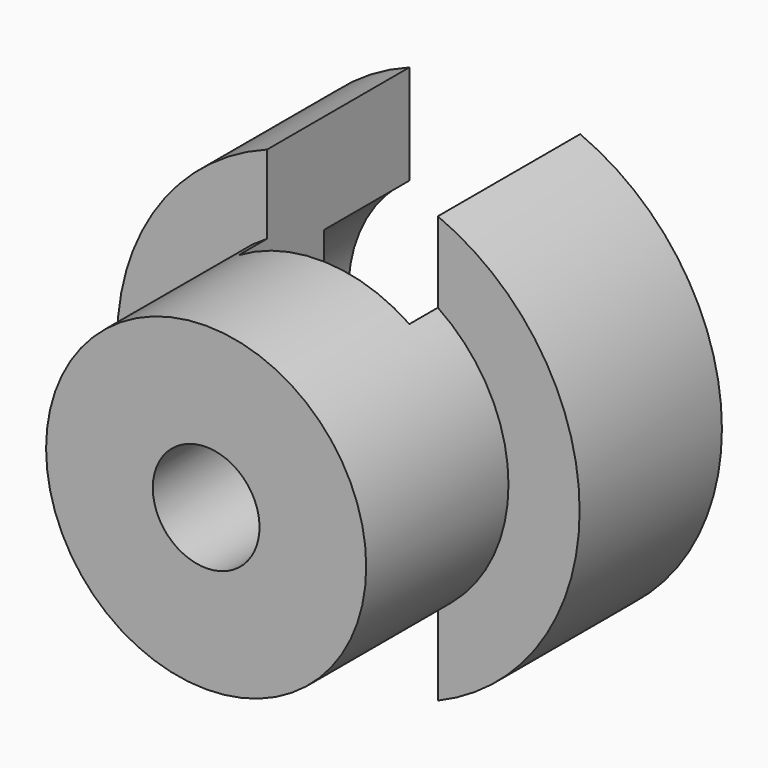
from build123d import *

# Parameters (mm, degrees)
F0_R      = 32.5
F1_DEPTH  = 25
F2_R      = 22.5
F3_DEPTH  = 25
F4_R      = 20
F5_DEPTH  = 15
F6_R      = 15
F7_DEPTH  = 20
F9_W      = 24
F9_H      = 30
F10_DEPTH = 100
F8_R      = 7.5
F12_DEPTH = 25


with BuildPart() as f1:
    # F0 (on Front) → F1 (new body)
    with BuildSketch(Plane.XZ):
        with Locations((-32.571085, 33.19031)):
            Circle(F0_R)
    extrude(amount=F1_DEPTH)

    # F2 (on face) → F3 (join)
    with BuildSketch(Plane.XZ.offset(25)):
        with Locations((-32.571085, 33.19031)):
            Circle(F2_R)
    extrude(amount=F3_DEPTH)

    # F4 (on face) → F5 (cut)
    with BuildSketch(Plane(origin=(0, 0, 0), x_dir=(-1, 0, 0), z_dir=(0, 1, 0))):
        with Locations((32.571085, 33.19031)):
            Circle(F4_R)
    extrude(amount=-F5_DEPTH, mode=Mode.SUBTRACT)

    # F6 (on face) → F7 (cut)
    with BuildSketch(Plane(origin=(0, -15, 0), x_dir=(-1, 0, 0), z_dir=(0, 1, 0))):
        with Locations((32.571085, 33.19031)):
            Circle(F6_R)
    extrude(amount=-F7_DEPTH, mode=Mode.SUBTRACT)

    # F9 (on Top) → F10 (cut)
    with BuildSketch(Plane.XY):
        with Locations((-32, -15)):
            Rectangle(F9_W, F9_H)
    extrude(amount=F10_DEPTH, mode=Mode.SUBTRACT)

    # F8 (on face) → F12 (cut)
    with BuildSketch(Plane(origin=(0, -35, 0), x_dir=(-1, 0, 0), z_dir=(0, 1, 0))):
        with Locations((32.571085, 33.19031)):
            Circle(F8_R)
    extrude(amount=-F12_DEPTH, mode=Mode.SUBTRACT)


solid = f1.part
